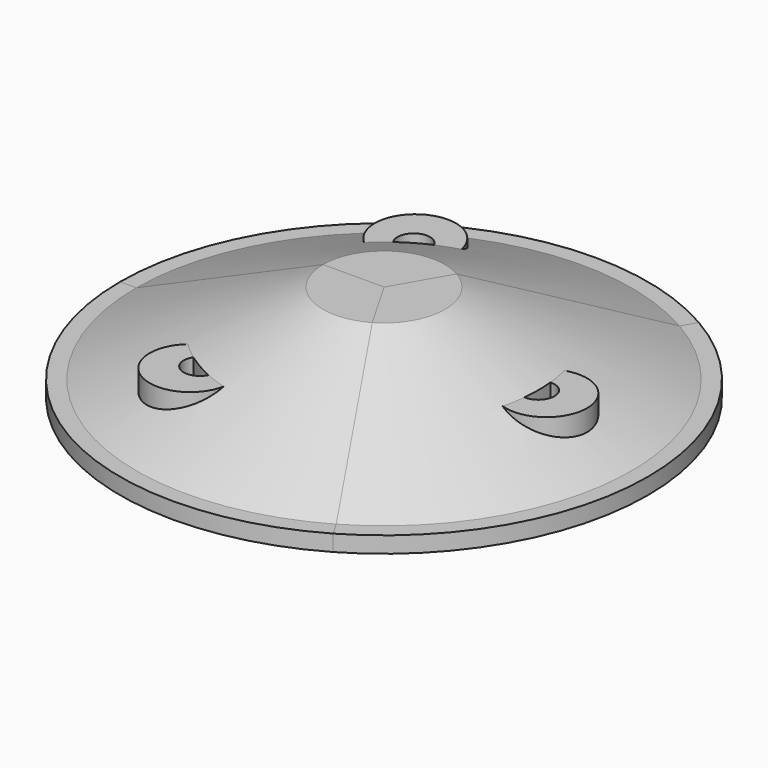
from build123d import *

# Parameters (mm, degrees)
F1_ANGLE = 120
F3_DEPTH = 14
F5_DEPTH = 8
F6_COUNT = 3


with BuildPart() as f1:
    # F0 (on Front) → F1 (revolve)
    with BuildSketch(Plane.XZ):
        Polygon((-14.168051, 20), (-60.168051, 0), (0, 0), (0, 20), align=None)
        Polygon((-65, 4), (-65, 0), (-60.168051, 0), (-14.168051, 20), (0, 20), (0, 24), (-15, 24), (-61, 4), align=None)
    revolve(axis=Axis((0, 0, 12), (0, 0, 1)), revolution_arc=F1_ANGLE)

    # F2 (on face) → F3 (join)
    with BuildSketch(Plane(origin=(0, 0, 0), x_dir=(1, 0, 0), z_dir=(0, 0, -1))):
        with BuildLine():
            ThreePointArc((-10, 34.641016), (-28.660254, 39.641016), (-15, 25.980762))
            ThreePointArc((-15, 25.980762), (-11.339746, 29.641016), (-10, 34.641016))
        make_face()
    extrude(amount=-F3_DEPTH)

    # F4 (on face) → F5 (cut)
    with BuildSketch(Plane.XY.offset(14)):
        with BuildLine():
            ThreePointArc((-15.435436, -34.723872), (-19, -32.908965), (-22.354037, -30.729416))
            ThreePointArc((-22.354037, -30.729416), (-21, -36.373067), (-15.435436, -34.723872))
        make_face()
    extrude(amount=-F5_DEPTH, mode=Mode.SUBTRACT)


with BuildPart() as f6_1:
    # F6: instance of F1
    add(f1.part.rotate(Axis((0, 0, 12), (0, 0, 1)), 1 * 360 / F6_COUNT))


with BuildPart() as f6_2:
    # F6: instance of F1
    add(f1.part.rotate(Axis((0, 0, 12), (0, 0, 1)), 2 * 360 / F6_COUNT))


solid = Compound([f1.part, f6_1.part, f6_2.part])
